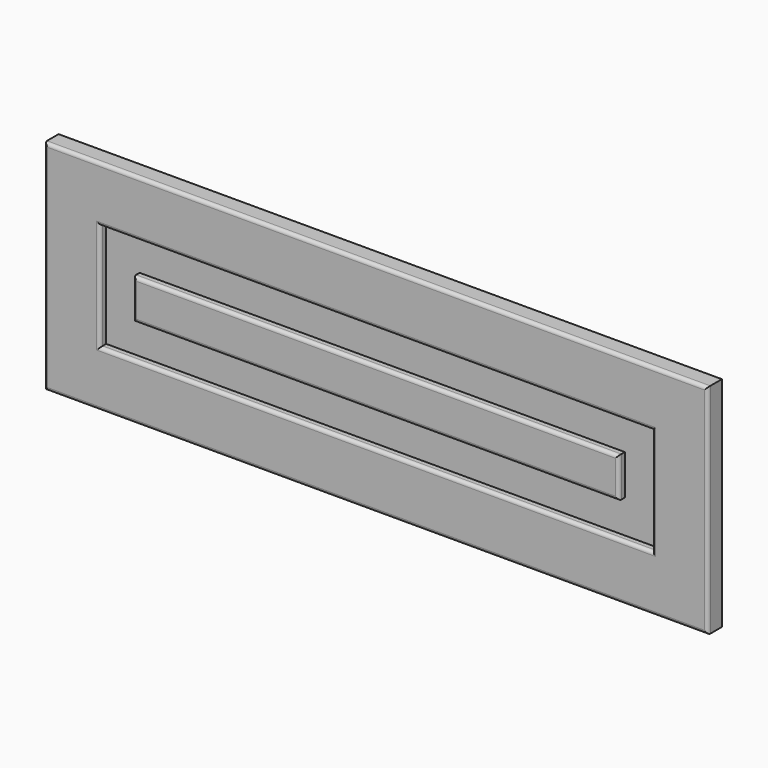
from build123d import *

# Parameters (mm, degrees)
F0_W      = 44.656470418
F0_H      = 33.8078811765
F1_DEPTH  = 16
F2_DEPTH  = 796
F3_DEPTH  = 196
F4_W      = 68.9578056335
F4_H      = 493.6993122101
F5_DEPTH  = 7
F6_DEPTH  = 9.7
F7_DEPTH  = 99.33
F8_DEPTH  = 99.33
F9_DEPTH  = 17.34
F10_DEPTH = 102.97
F11_W     = 35.2807044983
F11_H     = 492.0964837074
F12_DEPTH = 7
F13_DEPTH = 37.27
F14_DEPTH = 6.58
F15_DEPTH = 106.63
F16_DEPTH = 5.87
F17_DEPTH = 200
F18_DEPTH = 200
F19_DEPTH = 200
F20_DEPTH = 200
F21_DEPTH = 200
F22_DEPTH = 200
F23_DEPTH = 600
F24_DEPTH = 600
F25_DEPTH = 600
F26_R     = 3


with BuildPart() as f1:
    # F0 (on Front) → F1 (new body)
    with BuildSketch(Plane.XZ):
        with Locations((22.328235209, 16.9039405882)):
            Rectangle(F0_W, F0_H)
    extrude(amount=F1_DEPTH)

    # F2 (add): a face of the model
    f2_faces = [f1.faces().sort_by_distance(p)[0] for p in [
        (22.328235209, -8, 0),
    ]]
    extrude(f2_faces, amount=-F2_DEPTH)

    # F3 (add): a face of the model
    f3_faces = [f1.faces().sort_by_distance(p)[0] for p in [
        (0, -8, 398),
    ]]
    extrude(f3_faces, amount=-F3_DEPTH)

    # F4 (on face) → F5 (cut)
    with BuildSketch(Plane.XZ.offset(16)):
        with Locations((94.1769480705, 399.8196721077)):
            Rectangle(F4_W, F4_H)
    extrude(amount=-F5_DEPTH, mode=Mode.SUBTRACT)

    # F6 (cut): a face of the model
    f6_faces = [f1.faces().sort_by_distance(p)[0] for p in [
        (59.6980452538, -12.5, 399.8196721077),
    ]]
    extrude(f6_faces, amount=-F6_DEPTH, mode=Mode.SUBTRACT)

    # F7 (add): a face of the model
    f7_faces = [f1.faces().sort_by_distance(p)[0] for p in [
        (89.3269480705, -12.5, 646.6693282127),
    ]]
    extrude(f7_faces, amount=-F7_DEPTH)

    # F8 (cut): a face of the model
    f8_faces = [f1.faces().sort_by_distance(p)[0] for p in [
        (89.3269480705, -12.5, 646.6693282127),
    ]]
    extrude(f8_faces, amount=-F8_DEPTH, mode=Mode.SUBTRACT)

    # F9 (cut): a face of the model
    f9_faces = [f1.faces().sort_by_distance(p)[0] for p in [
        (128.6558508873, -12.5, 449.4846721077),
    ]]
    extrude(f9_faces, amount=-F9_DEPTH, mode=Mode.SUBTRACT)

    # F10 (cut): a face of the model
    f10_faces = [f1.faces().sort_by_distance(p)[0] for p in [
        (97.9969480705, -12.5, 152.9700160027),
    ]]
    extrude(f10_faces, amount=-F10_DEPTH, mode=Mode.SUBTRACT)

    # F11 (on face) → F12 (join)
    with BuildSketch(Plane.XZ.offset(9)):
        with Locations((91.7714834213, 432.6795041561)):
            Rectangle(F11_W, F11_H)
    extrude(amount=F12_DEPTH)

    # F13 (add): a face of the model
    f13_faces = [f1.faces().sort_by_distance(p)[0] for p in [
        (91.7714834213, -12.5, 678.7277460098),
    ]]
    extrude(f13_faces, amount=F13_DEPTH)

    # F14 (add): a face of the model
    f14_faces = [f1.faces().sort_by_distance(p)[0] for p in [
        (109.4118356705, -12.5, 451.3145041561),
    ]]
    extrude(f14_faces, amount=F14_DEPTH)

    # F15 (add): a face of the model
    f15_faces = [f1.faces().sort_by_distance(p)[0] for p in [
        (95.0614834213, -12.5, 186.6312623024),
    ]]
    extrude(f15_faces, amount=F15_DEPTH)

    # F16 (cut): a face of the model
    f16_faces = [f1.faces().sort_by_distance(p)[0] for p in [
        (74.1311311722, -12.5, 397.9995041561),
    ]]
    extrude(f16_faces, amount=-F16_DEPTH, mode=Mode.SUBTRACT)

    # F17 (add): a face of the model
    f17_faces = [f1.faces().sort_by_distance(p)[0] for p in [
        (196, -8, 398),
    ]]
    extrude(f17_faces, amount=F17_DEPTH)

    # F18 (cut): a face of the model
    f18_faces = [f1.faces().sort_by_distance(p)[0] for p in [
        (145.9958508873, -12.5, 397.9996721077),
    ]]
    extrude(f18_faces, amount=-F18_DEPTH, mode=Mode.SUBTRACT)

    # F19 (add): a face of the model
    f19_faces = [f1.faces().sort_by_distance(p)[0] for p in [
        (115.9918356705, -12.5, 397.9995041561),
    ]]
    extrude(f19_faces, amount=F19_DEPTH)

    # F20 (add): a face of the model
    f20_faces = [f1.faces().sort_by_distance(p)[0] for p in [
        (396, -8, 398),
    ]]
    extrude(f20_faces, amount=F20_DEPTH)

    # F21 (cut): a face of the model
    f21_faces = [f1.faces().sort_by_distance(p)[0] for p in [
        (345.9958508873, -12.5, 397.9996721077),
    ]]
    extrude(f21_faces, amount=-F21_DEPTH, mode=Mode.SUBTRACT)

    # F22 (add): a face of the model
    f22_faces = [f1.faces().sort_by_distance(p)[0] for p in [
        (315.9918356705, -12.5, 397.9995041561),
    ]]
    extrude(f22_faces, amount=F22_DEPTH)

    # F23 (cut): a face of the model
    f23_faces = [f1.faces().sort_by_distance(p)[0] for p in [
        (297.9964834213, -12.5, 80.0012623024),
    ]]
    extrude(f23_faces, amount=-F23_DEPTH, mode=Mode.SUBTRACT)

    # F24 (add): a face of the model
    f24_faces = [f1.faces().sort_by_distance(p)[0] for p in [
        (297.9969480705, -12.5, 50.0000160027),
    ]]
    extrude(f24_faces, amount=F24_DEPTH)

    # F25 (cut): a face of the model
    f25_faces = [f1.faces().sort_by_distance(p)[0] for p in [
        (298, -8, 0),
    ]]
    extrude(f25_faces, amount=-F25_DEPTH, mode=Mode.SUBTRACT)

    # F26
    f26_edges = [f1.edges().sort_by_distance(p)[0] for p in [
        (0, -16, 698),
        (298, -16, 796),
        (596, -16, 698),
        (298, -16, 600),
        (49.998045, -16, 697.999672),
        (297.996948, -16, 650.000016),
        (297.996948, -16, 745.999328),
        (545.995851, -16, 697.999672),
        (297.996483, -16, 715.997746),
        (515.991836, -16, 697.999504),
        (297.996483, -16, 680.001262),
        (80.001131, -16, 697.999504),
    ]]
    fillet(f26_edges, radius=F26_R)


solid = f1.part
